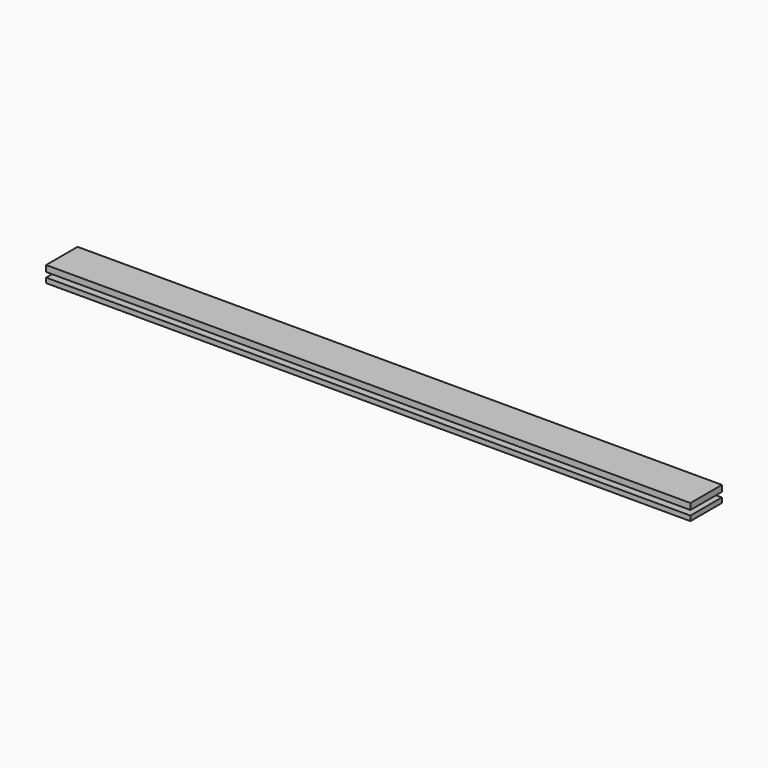
from build123d import *

# Parameters (mm, degrees)
F0_W     = 831.85
F0_H     = 50.8
F1_DEPTH = 20.6375
F2_W     = 12.7
F2_H     = 6.35
F3_DEPTH = 831.85
F4_W     = 12.7
F4_H     = 6.35
F5_DEPTH = 50.801


with BuildPart() as f1:
    # F0 (on Top) → F1 (new body)
    with BuildSketch(Plane.XY):
        with Locations((415.925, 25.4)):
            Rectangle(F0_W, F0_H)
    extrude(amount=F1_DEPTH)

    # F2 (on Right) → F3 (cut, through all)
    with BuildSketch(Plane.YZ):
        with Locations((6.35, 9.525)):
            Rectangle(F2_W, F2_H)
    extrude(amount=F3_DEPTH, mode=Mode.SUBTRACT)

    # F4 (on Front) → F5 (cut, through all)
    with BuildSketch(Plane.XZ):
        with Locations((6.35, 9.525)):
            Rectangle(F4_W, F4_H)
        with Locations((825.5, 9.525)):
            Rectangle(F4_W, F4_H)
    extrude(amount=-F5_DEPTH, mode=Mode.SUBTRACT)


solid = f1.part
